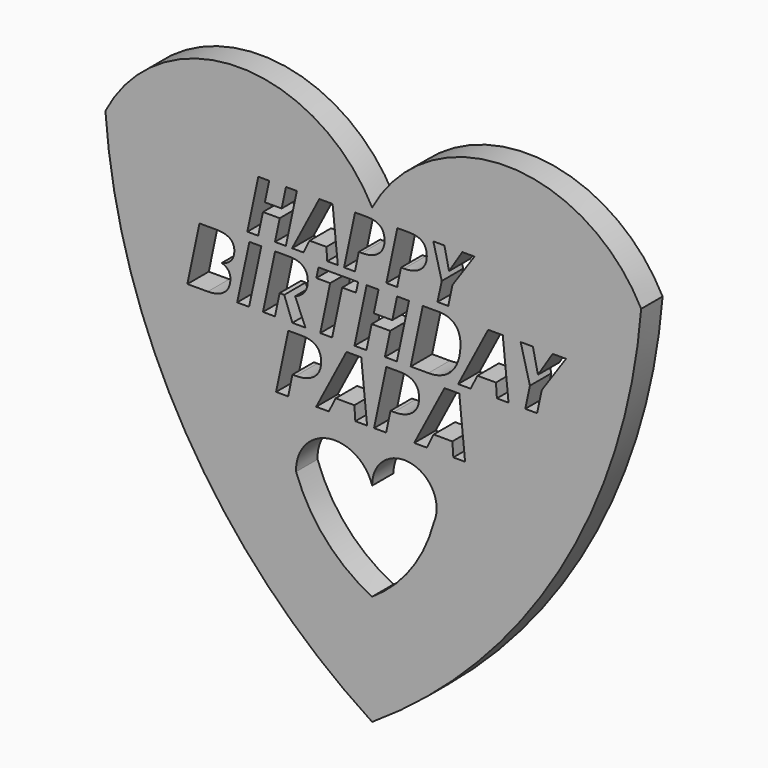
from build123d import *

# Parameters (mm, degrees)
F1_DEPTH = 7.62


with BuildPart() as f1:
    # F0 (on Front) → F1 (new body)
    with BuildSketch(Plane.XZ):
        with BuildLine():
            ThreePointArc((76.5412971377, 52.7861751616), (38.4240181454, 76.117055955), (0, 53.294878453))
            ThreePointArc((0, 53.294878453), (-38.1034101499, 76.117174345), (-75.8974775672, 52.7861751616))
            ThreePointArc((-75.8974775672, 52.7861751616), (-53.0759686338, -20.3398258641), (0, -75.5772665143))
            ThreePointArc((0, -75.5772665143), (53.2333491775, -20.3175915355), (76.5412971377, 52.7861751616))
        make_face()
        with BuildLine():
            ThreePointArc((-21.6367319226, -19.9587568641), (-12.3900728435, -8.6283921748), (0, -16.3978170604))
            ThreePointArc((0, -16.3978170604), (10.9984130449, -7.1885421911), (17.5327416509, -19.9587568641))
            ThreePointArc((17.5327416509, -19.9587568641), (11.0200299996, -33.7124199875), (0, -44.2070662975))
            ThreePointArc((0, -44.2070662975), (-13.2188234812, -34.2248364021), (-21.6367319226, -19.9587568641))
        make_face(mode=Mode.SUBTRACT)
        with BuildLine():
            Line((-49.1387016579, 33.3161398751), (-44.3841573785, 33.3161398751))
            add(Edge.make_bspline(
                [(-44.3841573785, 33.3161398751), (-41.8319808321, 33.3161398751), (-40.5273367374, 32.4059230649)],
                knots=[0, 0, 0, 1, 1, 1], degree=2))
            add(Edge.make_bspline(
                [(-40.5273367374, 32.4059230649), (-39.2226926427, 31.4957062546), (-39.2226926427, 29.6895505449)],
                knots=[0, 0, 0, 1, 1, 1], degree=2))
            add(Edge.make_bspline(
                [(-39.2226926427, 29.6895505449), (-39.2226926427, 28.0154655096), (-40.1471873637, 26.9285595538)],
                knots=[0, 0, 0, 1, 1, 1], degree=2))
            add(Edge.make_bspline(
                [(-40.1471873637, 26.9285595538), (-41.0716820847, 25.841653598), (-42.7778924192, 25.4847058293)],
                knots=[0, 0, 0, 1, 1, 1], degree=2))
            Line((-42.7778924192, 25.4847058293), (-42.7778924192, 25.4168857533))
            add(Edge.make_bspline(
                [(-42.7778924192, 25.4168857533), (-41.6642153808, 25.1277580606), (-41.000292531, 24.3406882305)],
                knots=[0, 0, 0, 1, 1, 1], degree=2))
            add(Edge.make_bspline(
                [(-41.000292531, 24.3406882305), (-40.3363696811, 23.5536184005), (-40.3363696811, 22.3292875538)],
                knots=[0, 0, 0, 1, 1, 1], degree=2))
            add(Edge.make_bspline(
                [(-40.3363696811, 22.3292875538), (-40.3363696811, 19.7735415297), (-42.0425800156, 18.3903689259)],
                knots=[0, 0, 0, 1, 1, 1], degree=2))
            add(Edge.make_bspline(
                [(-42.0425800156, 18.3903689259), (-43.7487903501, 17.0071963221), (-46.7614295182, 17.0071963221)],
                knots=[0, 0, 0, 1, 1, 1], degree=2))
            Line((-46.7614295182, 17.0071963221), (-52.5832476261, 17.0071963221))
            Line((-52.5832476261, 17.0071963221), (-49.1387016579, 33.3161398751))
        make_face(mode=Mode.SUBTRACT)
        with BuildLine():
            add(Edge.make_bspline(
                [(-15.9235152232, 13.4612709923), (-14.5260829621, 12.2603808169), (-14.5260829621, 9.862206743)],
                knots=[0, 0, 0, 1, 1, 1], degree=2))
            add(Edge.make_bspline(
                [(-14.5260829621, 9.862206743), (-14.5260829621, 7.1430740336), (-16.4374096677, 5.5941781467)],
                knots=[0, 0, 0, 1, 1, 1], degree=2))
            add(Edge.make_bspline(
                [(-16.4374096677, 5.5941781467), (-18.3487363732, 4.0452822599), (-21.7061800767, 4.0452822599)],
                knots=[0, 0, 0, 1, 1, 1], degree=2))
            Line((-21.7061800767, 4.0452822599), (-22.6762685367, 4.0452822599))
            Line((-22.6762685367, 4.0452822599), (-23.9024026497, -1.8149175448))
            Line((-23.9024026497, -1.8149175448), (-27.3391844429, -1.8149175448))
            Line((-27.3391844429, -1.8149175448), (-23.859127328, 14.6621611677))
            Line((-23.859127328, 14.6621611677), (-20.0472927474, 14.6621611677))
            add(Edge.make_bspline(
                [(-20.0472927474, 14.6621611677), (-17.3209474844, 14.6621611677), (-15.9235152232, 13.4612709923)],
                knots=[0, 0, 0, 1, 1, 1], degree=2))
        make_face(mode=Mode.SUBTRACT)
        Polygon((-4.7891355943, -1.8149175448), (-5.0596063545, 2.1087116167), (-10.3896834692, 2.1087116167), (-12.3262541123, -1.8149175448), (-15.9325309153, -1.8149175448), (-7.3027105259, 14.7306804269), (-3.0977917737, 14.7306804269), (-1.4425107212, -1.8149175448), align=None, mode=Mode.SUBTRACT)
        Polygon((-35.0142784494, 17.0071963221), (-38.4159906854, 17.0071963221), (-34.9357499403, 33.3161398751), (-31.5340377044, 33.3161398751), align=None, mode=Mode.SUBTRACT)
        with BuildLine():
            Line((-25.0090324921, 23.2644907078), (-26.3368781917, 23.2644907078))
            Line((-26.3368781917, 23.2644907078), (-27.6647238914, 17.0071963221))
            Line((-27.6647238914, 17.0071963221), (-31.0664361273, 17.0071963221))
            Line((-31.0664361273, 17.0071963221), (-27.6218901591, 33.3161398751))
            Line((-27.6218901591, 33.3161398751), (-23.616936194, 33.3161398751))
            add(Edge.make_bspline(
                [(-23.616936194, 33.3161398751), (-20.9719532278, 33.3161398751), (-19.6441075281, 32.1774764929)],
                knots=[0, 0, 0, 1, 1, 1], degree=2))
            add(Edge.make_bspline(
                [(-19.6441075281, 32.1774764929), (-18.3162618285, 31.0388131107), (-18.3162618285, 28.843584333)],
                knots=[0, 0, 0, 1, 1, 1], degree=2))
            add(Edge.make_bspline(
                [(-18.3162618285, 28.843584333), (-18.3162618285, 27.0802623555), (-19.2425412883, 25.8148825154)],
                knots=[0, 0, 0, 1, 1, 1], degree=2))
            add(Edge.make_bspline(
                [(-19.2425412883, 25.8148825154), (-20.1688207481, 24.5495026753), (-21.9107258595, 23.935552513)],
                knots=[0, 0, 0, 1, 1, 1], degree=2))
            Line((-21.9107258595, 23.935552513), (-18.9980320667, 17.0071963221))
            Line((-18.9980320667, 17.0071963221), (-22.7031499061, 17.0071963221))
            Line((-22.7031499061, 17.0071963221), (-25.0090324921, 23.2644907078))
        make_face(mode=Mode.SUBTRACT)
        Polygon((-8.5466013984, 30.4391408592), (-11.3807666821, 17.0071963221), (-14.7824789181, 17.0071963221), (-11.9483136344, 30.4391408592), (-15.8747390904, 30.4391408592), (-15.2607889282, 33.3161398751), (-3.9955173472, 33.3161398751), (-4.6094675094, 30.4391408592), align=None, mode=Mode.SUBTRACT)
        Polygon((-21.435345287, 50.4554897683), (-24.5635328821, 35.6597453356), (-27.6593375828, 35.6597453356), (-26.3057325986, 42.0456521032), (-31.0692563588, 42.0456521032), (-32.4260996325, 35.6597453356), (-35.5121894649, 35.6597453356), (-32.3872401592, 50.4554897683), (-29.2881971691, 50.4554897683), (-30.5155088653, 44.6557133885), (-25.7487468156, 44.6557133885), (-24.5246734089, 50.4554897683), align=None, mode=Mode.SUBTRACT)
        Polygon((-12.7761593354, 35.6597453356), (-13.0190310431, 39.1830042419), (-17.8052228293, 39.1830042419), (-19.5441842564, 35.6597453356), (-22.7824736923, 35.6597453356), (-15.0332470722, 50.5170172675), (-11.2574015899, 50.5170172675), (-9.7710267388, 35.6597453356), align=None, mode=Mode.SUBTRACT)
        with BuildLine():
            add(Edge.make_bspline(
                [(2.2640759497, 49.3771393861), (3.5189131061, 48.2987890039), (3.5189131061, 46.1453265291)],
                knots=[0, 0, 0, 1, 1, 1], degree=2))
            add(Edge.make_bspline(
                [(3.5189131061, 46.1453265291), (3.5189131061, 43.7036562944), (1.8026197051, 42.3128109817)],
                knots=[0, 0, 0, 1, 1, 1], degree=2))
            add(Edge.make_bspline(
                [(1.8026197051, 42.3128109817), (0.0863263041, 40.9219656689), (-2.9285211608, 40.9219656689)],
                knots=[0, 0, 0, 1, 1, 1], degree=2))
            Line((-2.9285211608, 40.9219656689), (-3.799621019, 40.9219656689))
            Line((-3.799621019, 40.9219656689), (-4.9006394272, 35.6597453356))
            Line((-4.9006394272, 35.6597453356), (-7.9867292597, 35.6597453356))
            Line((-7.9867292597, 35.6597453356), (-4.861779954, 50.4554897683))
            Line((-4.861779954, 50.4554897683), (-1.4389080202, 50.4554897683))
            add(Edge.make_bspline(
                [(-1.4389080202, 50.4554897683), (1.0092387933, 50.4554897683), (2.2640759497, 49.3771393861)],
                knots=[0, 0, 0, 1, 1, 1], degree=2))
        make_face(mode=Mode.SUBTRACT)
        with BuildLine():
            add(Edge.make_bspline(
                [(11.9602170168, 13.4612709923), (13.357649278, 12.2603808169), (13.357649278, 9.862206743)],
                knots=[0, 0, 0, 1, 1, 1], degree=2))
            add(Edge.make_bspline(
                [(13.357649278, 9.862206743), (13.357649278, 7.1430740336), (11.4463225724, 5.5941781467)],
                knots=[0, 0, 0, 1, 1, 1], degree=2))
            add(Edge.make_bspline(
                [(11.4463225724, 5.5941781467), (9.5349958669, 4.0452822599), (6.1775521634, 4.0452822599)],
                knots=[0, 0, 0, 1, 1, 1], degree=2))
            Line((6.1775521634, 4.0452822599), (5.2074637034, 4.0452822599))
            Line((5.2074637034, 4.0452822599), (3.9813295904, -1.8149175448))
            Line((3.9813295904, -1.8149175448), (0.5445477972, -1.8149175448))
            Line((0.5445477972, -1.8149175448), (4.024604912, 14.6621611677))
            Line((4.024604912, 14.6621611677), (7.8364394927, 14.6621611677))
            add(Edge.make_bspline(
                [(7.8364394927, 14.6621611677), (10.5627847557, 14.6621611677), (11.9602170168, 13.4612709923)],
                knots=[0, 0, 0, 1, 1, 1], degree=2))
        make_face(mode=Mode.SUBTRACT)
        Polygon((23.0945966458, -1.8149175448), (22.8241258856, 2.1087116167), (17.4940487709, 2.1087116167), (15.5574781278, -1.8149175448), (11.9512013248, -1.8149175448), (20.5810217142, 14.7306804269), (24.7859404664, 14.7306804269), (26.4412215189, -1.8149175448), align=None, mode=Mode.SUBTRACT)
        Polygon((10.48585363, 33.3161398751), (7.0377381841, 17.0071963221), (3.6253175151, 17.0071963221), (5.1173591884, 24.0462063213), (-0.1333424896, 24.0462063213), (-1.6289536405, 17.0071963221), (-5.0306658765, 17.0071963221), (-1.5861199083, 33.3161398751), (1.8298702384, 33.3161398751), (0.4770381949, 26.9232053373), (5.7313093506, 26.9232053373), (7.0805719164, 33.3161398751), align=None, mode=Mode.SUBTRACT)
        with BuildLine():
            add(Edge.make_bspline(
                [(23.4841066281, 31.7205833489), (25.1278511031, 30.1250268227), (25.1278511031, 27.1480824316)],
                knots=[0, 0, 0, 1, 1, 1], degree=2))
            add(Edge.make_bspline(
                [(25.1278511031, 27.1480824316), (25.1278511031, 24.0247894552), (24.0355909308, 21.7206916081)],
                knots=[0, 0, 0, 1, 1, 1], degree=2))
            add(Edge.make_bspline(
                [(24.0355909308, 21.7206916081), (22.9433307585, 19.416593761), (20.8748184387, 18.2118950415)],
                knots=[0, 0, 0, 1, 1, 1], degree=2))
            add(Edge.make_bspline(
                [(20.8748184387, 18.2118950415), (18.806306119, 17.0071963221), (15.9935577014, 17.0071963221)],
                knots=[0, 0, 0, 1, 1, 1], degree=2))
            Line((15.9935577014, 17.0071963221), (10.9641636401, 17.0071963221))
            Line((10.9641636401, 17.0071963221), (14.4087096083, 33.3161398751))
            Line((14.4087096083, 33.3161398751), (18.8277229851, 33.3161398751))
            add(Edge.make_bspline(
                [(18.8277229851, 33.3161398751), (21.8403621531, 33.3161398751), (23.4841066281, 31.7205833489)],
                knots=[0, 0, 0, 1, 1, 1], degree=2))
        make_face(mode=Mode.SUBTRACT)
        Polygon((35.4900448292, 17.0071963221), (35.2223340027, 20.8907880458), (29.9466459809, 20.8907880458), (28.0298364628, 17.0071963221), (24.4603587756, 17.0071963221), (33.0021188812, 33.3839599512), (37.1641298645, 33.3839599512), (38.802520123, 17.0071963221), align=None, mode=Mode.SUBTRACT)
        Polygon((45.7308763139, 33.3161398751), (47.1693758219, 26.7126061537), (51.3420952383, 33.3161398751), (55.157866886, 33.3161398751), (48.2652054719, 23.2430738417), (46.9373597722, 17.0071963221), (43.5570644024, 17.0071963221), (44.8849101021, 23.2430738417), (42.2506355689, 33.3161398751), align=None, mode=Mode.SUBTRACT)
        with BuildLine():
            add(Edge.make_bspline(
                [(14.2878446253, 49.3771393861), (15.5426817817, 48.2987890039), (15.5426817817, 46.1453265291)],
                knots=[0, 0, 0, 1, 1, 1], degree=2))
            add(Edge.make_bspline(
                [(15.5426817817, 46.1453265291), (15.5426817817, 43.7036562944), (13.8263883806, 42.3128109817)],
                knots=[0, 0, 0, 1, 1, 1], degree=2))
            add(Edge.make_bspline(
                [(13.8263883806, 42.3128109817), (12.1100949796, 40.9219656689), (9.0952475148, 40.9219656689)],
                knots=[0, 0, 0, 1, 1, 1], degree=2))
            Line((9.0952475148, 40.9219656689), (8.2241476565, 40.9219656689))
            Line((8.2241476565, 40.9219656689), (7.1231292483, 35.6597453356))
            Line((7.1231292483, 35.6597453356), (4.0370394159, 35.6597453356))
            Line((4.0370394159, 35.6597453356), (7.1619887215, 50.4554897683))
            Line((7.1619887215, 50.4554897683), (10.5848606553, 50.4554897683))
            add(Edge.make_bspline(
                [(10.5848606553, 50.4554897683), (13.0330074688, 50.4554897683), (14.2878446253, 49.3771393861)],
                knots=[0, 0, 0, 1, 1, 1], degree=2))
        make_face(mode=Mode.SUBTRACT)
        Polygon((20.5620304073, 50.4554897683), (21.86706105, 44.4646543118), (25.6526214006, 50.4554897683), (29.1143528076, 50.4554897683), (22.8612159068, 41.3170369801), (21.6565722367, 35.6597453356), (18.5899121409, 35.6597453356), (19.794555811, 41.3170369801), (17.4046982073, 50.4554897683), align=None, mode=Mode.SUBTRACT)
    extrude(amount=F1_DEPTH)


solid = f1.part
